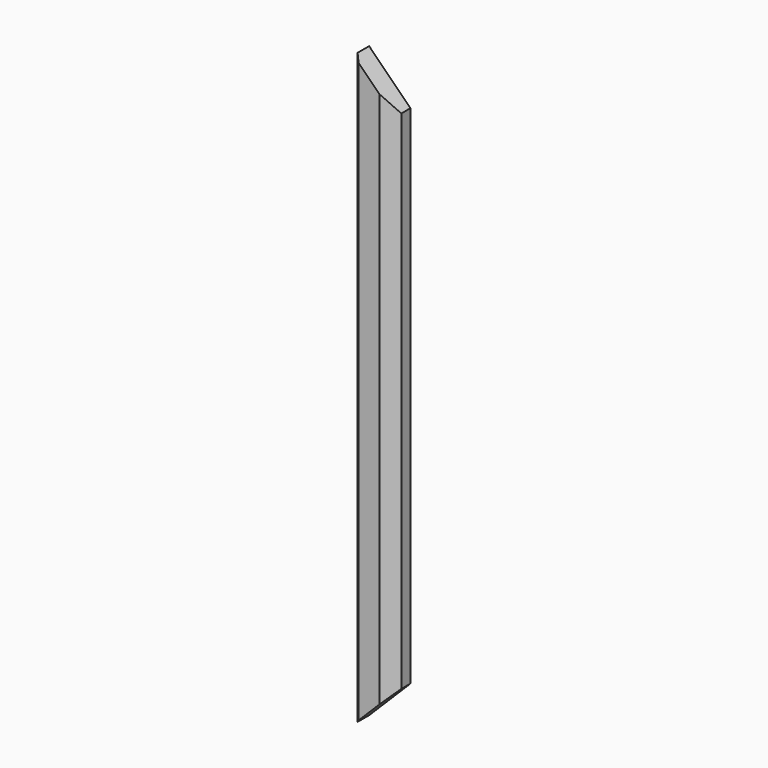
from build123d import *

# Parameters (mm, degrees)
F1_DEPTH = 571
F3_DEPTH = 25


with BuildPart() as f1:
    # F0 (on Top) → F1 (new body)
    with BuildSketch(Plane.XY):
        Polygon((40, 0), (0, 0), (0, -14), (5, -19), (25, -19), (40, -11), align=None)
    extrude(amount=F1_DEPTH)

    # F2 (on Front) → F3 (cut)
    with BuildSketch(Plane.XZ):
        Polygon((40, 40), (0, 0), (40, 0), align=None)
        Polygon((0, 571), (40, 531), (40, 571), align=None)
    extrude(amount=F3_DEPTH, mode=Mode.SUBTRACT)


solid = f1.part
